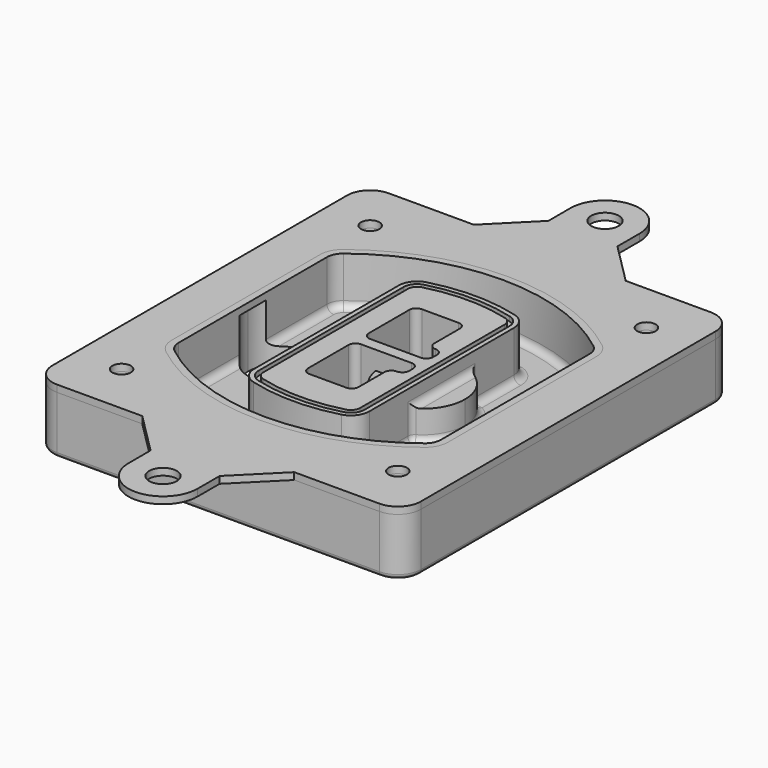
from build123d import *

# Parameters (mm, degrees)
F0_R      = 4
F1_DEPTH  = 25
F2_DEPTH  = 3
F3_DEPTH  = 18
F5_DEPTH  = 21
F6_DEPTH  = 2
F8_DEPTH  = 20
F9_DEPTH  = 16
F10_DEPTH = 25
F7_R      = 6
F7_R_2    = 4
F11_DEPTH = 6
F13_DEPTH = 9
F14_R     = 3
F15_R     = 2
F16_R     = 4
F16_R_2   = 6
F17_DEPTH = 3


with BuildPart() as f1:
    # F0 (on Top) → F1 (new body)
    with BuildSketch(Plane.XY):
        with BuildLine():
            ThreePointArc((14.05, 38.3825811321), (16.9789321881, 31.3115133202), (24.05, 28.3825811321))
            Line((24.05, 28.3825811321), (164.05, 28.3825811321))
            ThreePointArc((164.05, 28.3825811321), (171.1210678119, 31.3115133202), (174.05, 38.3825811321))
            Line((174.05, 38.3825811321), (174.05, 198.3825811321))
            ThreePointArc((174.05, 198.3825811321), (171.1210678119, 205.4536489439), (164.05, 208.3825811321))
            Line((164.05, 208.3825811321), (24.05, 208.3825811321))
            ThreePointArc((24.05, 208.3825811321), (16.9789321881, 205.4536489439), (14.05, 198.3825811321))
            Line((14.05, 198.3825811321), (14.05, 38.3825811321))
        make_face()
        with Locations((34.05, 50.8825811321)):
            Circle(F0_R, mode=Mode.SUBTRACT)
        with Locations((154.05, 50.8825811321)):
            Circle(F0_R, mode=Mode.SUBTRACT)
        with BuildLine():
            ThreePointArc((30.05, 158.6760234193), (31.4679615202, 164.8154295545), (35.4346153846, 169.7112011673))
            ThreePointArc((35.4346153846, 169.7112011673), (94.05, 189.8825811321), (152.6653846154, 169.7112011673))
            ThreePointArc((152.6653846154, 169.7112011673), (156.6320384798, 164.8154295545), (158.05, 158.6760234193))
            Line((158.05, 158.6760234193), (158.05, 78.0891388448))
            ThreePointArc((158.05, 78.0891388448), (156.6320384798, 71.9497327097), (152.6653846154, 67.0539610969))
            ThreePointArc((152.6653846154, 67.0539610969), (94.05, 46.8825811321), (35.4346153846, 67.0539610969))
            ThreePointArc((35.4346153846, 67.0539610969), (31.4679615202, 71.9497327097), (30.05, 78.0891388448))
            Line((30.05, 78.0891388448), (30.05, 158.6760234193))
        make_face(mode=Mode.SUBTRACT)
        with Locations((34.05, 185.8825811321)):
            Circle(F0_R, mode=Mode.SUBTRACT)
        with Locations((154.05, 185.8825811321)):
            Circle(F0_R, mode=Mode.SUBTRACT)
        with BuildLine():
            ThreePointArc((152.6653846154, 169.7112011673), (94.05, 189.8825811321), (35.4346153846, 169.7112011673))
            ThreePointArc((35.4346153846, 169.7112011673), (31.4679615202, 164.8154295545), (30.05, 158.6760234193))
            Line((30.05, 158.6760234193), (30.05, 78.0891388448))
            ThreePointArc((30.05, 78.0891388448), (31.4679615202, 71.9497327097), (35.4346153846, 67.0539610969))
            ThreePointArc((35.4346153846, 67.0539610969), (94.05, 46.8825811321), (152.6653846154, 67.0539610969))
            ThreePointArc((152.6653846154, 67.0539610969), (156.6320384798, 71.9497327097), (158.05, 78.0891388448))
            Line((158.05, 78.0891388448), (158.05, 158.6760234193))
            ThreePointArc((158.05, 158.6760234193), (156.6320384798, 164.8154295545), (152.6653846154, 169.7112011673))
        make_face()
        with BuildLine():
            Line((34.05, 78.0891388448), (34.05, 158.6760234193))
            ThreePointArc((34.05, 158.6760234193), (35.0628296573, 163.0613135158), (37.8961538462, 166.5582932393))
            ThreePointArc((37.8961538462, 166.5582932393), (94.05, 185.8825811321), (150.2038461538, 166.5582932393))
            ThreePointArc((150.2038461538, 166.5582932393), (153.0371703427, 163.0613135158), (154.05, 158.6760234193))
            Line((154.05, 158.6760234193), (154.05, 78.0891388448))
            ThreePointArc((154.05, 78.0891388448), (153.0371703427, 73.7038487483), (150.2038461538, 70.2068690248))
            ThreePointArc((150.2038461538, 70.2068690248), (94.05, 50.8825811321), (37.8961538462, 70.2068690248))
            ThreePointArc((37.8961538462, 70.2068690248), (35.0628296573, 73.7038487483), (34.05, 78.0891388448))
        make_face(mode=Mode.SUBTRACT)
        with BuildLine():
            ThreePointArc((37.8961538462, 166.5582932393), (35.0628296573, 163.0613135158), (34.05, 158.6760234193))
            Line((34.05, 158.6760234193), (34.05, 78.0891388448))
            ThreePointArc((34.05, 78.0891388448), (35.0628296573, 73.7038487483), (37.8961538462, 70.2068690248))
            ThreePointArc((37.8961538462, 70.2068690248), (94.05, 50.8825811321), (150.2038461538, 70.2068690248))
            ThreePointArc((150.2038461538, 70.2068690248), (153.0371703427, 73.7038487483), (154.05, 78.0891388448))
            Line((154.05, 78.0891388448), (154.05, 158.6760234193))
            ThreePointArc((154.05, 158.6760234193), (153.0371703427, 163.0613135158), (150.2038461538, 166.5582932393))
            ThreePointArc((150.2038461538, 166.5582932393), (94.05, 185.8825811321), (37.8961538462, 166.5582932393))
        make_face()
        with BuildLine():
            ThreePointArc((148.3576923077, 164.1936122933), (150.3410192399, 161.7457264869), (151.05, 158.6760234193))
            Line((151.05, 158.6760234193), (151.05, 78.0891388448))
            ThreePointArc((151.05, 78.0891388448), (150.3410192399, 75.0194357772), (148.3576923077, 72.5715499708))
            ThreePointArc((148.3576923077, 72.5715499708), (94.05, 53.8825811321), (39.7423076923, 72.5715499708))
            ThreePointArc((39.7423076923, 72.5715499708), (37.7589807601, 75.0194357772), (37.05, 78.0891388448))
            Line((37.05, 78.0891388448), (37.05, 158.6760234193))
            ThreePointArc((37.05, 158.6760234193), (37.7589807601, 161.7457264869), (39.7423076923, 164.1936122933))
            ThreePointArc((39.7423076923, 164.1936122933), (94.05, 182.8825811321), (148.3576923077, 164.1936122933))
        make_face(mode=Mode.SUBTRACT)
        with BuildLine():
            Line((151.05, 78.0891388448), (151.05, 158.6760234193))
            ThreePointArc((151.05, 158.6760234193), (150.3410192399, 161.7457264869), (148.3576923077, 164.1936122933))
            ThreePointArc((148.3576923077, 164.1936122933), (94.05, 182.8825811321), (39.7423076923, 164.1936122933))
            ThreePointArc((39.7423076923, 164.1936122933), (37.7589807601, 161.7457264869), (37.05, 158.6760234193))
            Line((37.05, 158.6760234193), (37.05, 78.0891388448))
            ThreePointArc((37.05, 78.0891388448), (37.7589807601, 75.0194357772), (39.7423076923, 72.5715499708))
            ThreePointArc((39.7423076923, 72.5715499708), (94.05, 53.8825811321), (148.3576923077, 72.5715499708))
            ThreePointArc((148.3576923077, 72.5715499708), (150.3410192399, 75.0194357772), (151.05, 78.0891388448))
        make_face()
    extrude(amount=-F1_DEPTH)

    # F0 (on Top) → F2 (join)
    with BuildSketch(Plane.XY):
        with BuildLine():
            ThreePointArc((37.8961538462, 166.5582932393), (35.0628296573, 163.0613135158), (34.05, 158.6760234193))
            Line((34.05, 158.6760234193), (34.05, 78.0891388448))
            ThreePointArc((34.05, 78.0891388448), (35.0628296573, 73.7038487483), (37.8961538462, 70.2068690248))
            ThreePointArc((37.8961538462, 70.2068690248), (94.05, 50.8825811321), (150.2038461538, 70.2068690248))
            ThreePointArc((150.2038461538, 70.2068690248), (153.0371703427, 73.7038487483), (154.05, 78.0891388448))
            Line((154.05, 78.0891388448), (154.05, 158.6760234193))
            ThreePointArc((154.05, 158.6760234193), (153.0371703427, 163.0613135158), (150.2038461538, 166.5582932393))
            ThreePointArc((150.2038461538, 166.5582932393), (94.05, 185.8825811321), (37.8961538462, 166.5582932393))
        make_face()
        with BuildLine():
            ThreePointArc((148.3576923077, 164.1936122933), (150.3410192399, 161.7457264869), (151.05, 158.6760234193))
            Line((151.05, 158.6760234193), (151.05, 78.0891388448))
            ThreePointArc((151.05, 78.0891388448), (150.3410192399, 75.0194357772), (148.3576923077, 72.5715499708))
            ThreePointArc((148.3576923077, 72.5715499708), (94.05, 53.8825811321), (39.7423076923, 72.5715499708))
            ThreePointArc((39.7423076923, 72.5715499708), (37.7589807601, 75.0194357772), (37.05, 78.0891388448))
            Line((37.05, 78.0891388448), (37.05, 158.6760234193))
            ThreePointArc((37.05, 158.6760234193), (37.7589807601, 161.7457264869), (39.7423076923, 164.1936122933))
            ThreePointArc((39.7423076923, 164.1936122933), (94.05, 182.8825811321), (148.3576923077, 164.1936122933))
        make_face(mode=Mode.SUBTRACT)
    extrude(amount=F2_DEPTH)

    # F0 (on Top) → F3 (cut)
    with BuildSketch(Plane.XY):
        with BuildLine():
            Line((151.05, 78.0891388448), (151.05, 158.6760234193))
            ThreePointArc((151.05, 158.6760234193), (150.3410192399, 161.7457264869), (148.3576923077, 164.1936122933))
            ThreePointArc((148.3576923077, 164.1936122933), (94.05, 182.8825811321), (39.7423076923, 164.1936122933))
            ThreePointArc((39.7423076923, 164.1936122933), (37.7589807601, 161.7457264869), (37.05, 158.6760234193))
            Line((37.05, 158.6760234193), (37.05, 78.0891388448))
            ThreePointArc((37.05, 78.0891388448), (37.7589807601, 75.0194357772), (39.7423076923, 72.5715499708))
            ThreePointArc((39.7423076923, 72.5715499708), (94.05, 53.8825811321), (148.3576923077, 72.5715499708))
            ThreePointArc((148.3576923077, 72.5715499708), (150.3410192399, 75.0194357772), (151.05, 78.0891388448))
        make_face()
    extrude(amount=-F3_DEPTH, mode=Mode.SUBTRACT)

    # F4 (on face) → F5 (join, through all)
    with BuildSketch(Plane.XY.offset(3)):
        with BuildLine():
            ThreePointArc((69.05, 79.13605345), (70.6988454002, 74.2716074128), (74.9657088123, 71.4123412437))
            ThreePointArc((74.9657088123, 71.4123412437), (94.05, 68.8825811321), (113.1342911877, 71.4123412437))
            ThreePointArc((113.1342911877, 71.4123412437), (117.4011545998, 74.2716074128), (119.05, 79.13605345))
            Line((119.05, 79.13605345), (119.05, 157.6291088141))
            ThreePointArc((119.05, 157.6291088141), (117.4011545998, 162.4935548514), (113.1342911877, 165.3528210204))
            ThreePointArc((113.1342911877, 165.3528210204), (94.05, 167.8825811321), (74.9657088123, 165.3528210204))
            ThreePointArc((74.9657088123, 165.3528210204), (70.6988454002, 162.4935548514), (69.05, 157.6291088141))
            Line((69.05, 157.6291088141), (69.05, 79.13605345))
        make_face()
        with BuildLine():
            ThreePointArc((112.6132183908, 163.4218929688), (115.8133659499, 161.2774433421), (117.05, 157.6291088141))
            Line((117.05, 157.6291088141), (117.05, 79.13605345))
            ThreePointArc((117.05, 79.13605345), (115.8133659499, 75.4877189221), (112.6132183908, 73.3432692953))
            ThreePointArc((112.6132183908, 73.3432692953), (94.05, 70.8825811321), (75.4867816092, 73.3432692953))
            ThreePointArc((75.4867816092, 73.3432692953), (72.2866340501, 75.4877189221), (71.05, 79.13605345))
            Line((71.05, 79.13605345), (71.05, 157.6291088141))
            ThreePointArc((71.05, 157.6291088141), (72.2866340501, 161.2774433421), (75.4867816092, 163.4218929688))
            ThreePointArc((75.4867816092, 163.4218929688), (94.05, 165.8825811321), (112.6132183908, 163.4218929688))
        make_face(mode=Mode.SUBTRACT)
        with BuildLine():
            Line((117.05, 79.13605345), (117.05, 157.6291088141))
            ThreePointArc((117.05, 157.6291088141), (115.8133659499, 161.2774433421), (112.6132183908, 163.4218929688))
            ThreePointArc((112.6132183908, 163.4218929688), (94.05, 165.8825811321), (75.4867816092, 163.4218929688))
            ThreePointArc((75.4867816092, 163.4218929688), (72.2866340501, 161.2774433421), (71.05, 157.6291088141))
            Line((71.05, 157.6291088141), (71.05, 79.13605345))
            ThreePointArc((71.05, 79.13605345), (72.2866340501, 75.4877189221), (75.4867816092, 73.3432692953))
            ThreePointArc((75.4867816092, 73.3432692953), (94.05, 70.8825811321), (112.6132183908, 73.3432692953))
            ThreePointArc((112.6132183908, 73.3432692953), (115.8133659499, 75.4877189221), (117.05, 79.13605345))
        make_face()
        with BuildLine():
            ThreePointArc((112.0921455939, 161.4909649173), (114.2255772999, 160.0613318328), (115.05, 157.6291088141))
            Line((115.05, 157.6291088141), (115.05, 79.13605345))
            ThreePointArc((115.05, 79.13605345), (114.2255772999, 76.7038304314), (112.0921455939, 75.2741973469))
            ThreePointArc((112.0921455939, 75.2741973469), (94.05, 72.8825811321), (76.0078544061, 75.2741973469))
            ThreePointArc((76.0078544061, 75.2741973469), (73.8744227001, 76.7038304314), (73.05, 79.13605345))
            Line((73.05, 79.13605345), (73.05, 157.6291088141))
            ThreePointArc((73.05, 157.6291088141), (73.8744227001, 160.0613318328), (76.0078544061, 161.4909649173))
            ThreePointArc((76.0078544061, 161.4909649173), (94.05, 163.8825811321), (112.0921455939, 161.4909649173))
        make_face(mode=Mode.SUBTRACT)
        with BuildLine():
            Line((115.05, 79.13605345), (115.05, 157.6291088141))
            ThreePointArc((115.05, 157.6291088141), (114.2255772999, 160.0613318328), (112.0921455939, 161.4909649173))
            ThreePointArc((112.0921455939, 161.4909649173), (94.05, 163.8825811321), (76.0078544061, 161.4909649173))
            ThreePointArc((76.0078544061, 161.4909649173), (73.8744227001, 160.0613318328), (73.05, 157.6291088141))
            Line((73.05, 157.6291088141), (73.05, 79.13605345))
            ThreePointArc((73.05, 79.13605345), (73.8744227001, 76.7038304314), (76.0078544061, 75.2741973469))
            ThreePointArc((76.0078544061, 75.2741973469), (94.05, 72.8825811321), (112.0921455939, 75.2741973469))
            ThreePointArc((112.0921455939, 75.2741973469), (114.2255772999, 76.7038304314), (115.05, 79.13605345))
        make_face()
        with BuildLine():
            Line((86.05, 115.8825811321), (108.05, 115.8825811321))
            ThreePointArc((108.05, 115.8825811321), (110.1713203436, 115.0039014756), (111.05, 112.8825811321))
            Line((111.05, 112.8825811321), (111.05, 110.8825811321))
            ThreePointArc((111.05, 110.8825811321), (110.1713203436, 108.7612607885), (108.05, 107.8825811321))
            ThreePointArc((108.05, 107.8825811321), (105.9286796564, 107.0039014756), (105.05, 104.8825811321))
            Line((105.05, 104.8825811321), (105.05, 90.8825811321))
            ThreePointArc((105.05, 90.8825811321), (104.1713203436, 88.7612607885), (102.05, 87.8825811321))
            Line((102.05, 87.8825811321), (86.05, 87.8825811321))
            ThreePointArc((86.05, 87.8825811321), (83.9286796564, 88.7612607885), (83.05, 90.8825811321))
            Line((83.05, 90.8825811321), (83.05, 112.8825811321))
            ThreePointArc((83.05, 112.8825811321), (83.9286796564, 115.0039014756), (86.05, 115.8825811321))
        make_face(mode=Mode.SUBTRACT)
        with BuildLine():
            ThreePointArc((86.05, 120.8825811321), (83.9286796564, 121.7612607885), (83.05, 123.8825811321))
            Line((83.05, 123.8825811321), (83.05, 145.8825811321))
            ThreePointArc((83.05, 145.8825811321), (83.9286796564, 148.0039014756), (86.05, 148.8825811321))
            Line((86.05, 148.8825811321), (102.05, 148.8825811321))
            ThreePointArc((102.05, 148.8825811321), (104.1713203436, 148.0039014756), (105.05, 145.8825811321))
            Line((105.05, 145.8825811321), (105.05, 131.8825811321))
            ThreePointArc((105.05, 131.8825811321), (105.9286796564, 129.7612607885), (108.05, 128.8825811321))
            ThreePointArc((108.05, 128.8825811321), (110.1713203436, 128.0039014756), (111.05, 125.8825811321))
            Line((111.05, 125.8825811321), (111.05, 123.8825811321))
            ThreePointArc((111.05, 123.8825811321), (110.1713203436, 121.7612607885), (108.05, 120.8825811321))
            Line((108.05, 120.8825811321), (86.05, 120.8825811321))
        make_face(mode=Mode.SUBTRACT)
    extrude(amount=-F5_DEPTH)

    # F4 (on face) → F6 (cut)
    with BuildSketch(Plane.XY.offset(3)):
        with BuildLine():
            Line((117.05, 79.13605345), (117.05, 157.6291088141))
            ThreePointArc((117.05, 157.6291088141), (115.8133659499, 161.2774433421), (112.6132183908, 163.4218929688))
            ThreePointArc((112.6132183908, 163.4218929688), (94.05, 165.8825811321), (75.4867816092, 163.4218929688))
            ThreePointArc((75.4867816092, 163.4218929688), (72.2866340501, 161.2774433421), (71.05, 157.6291088141))
            Line((71.05, 157.6291088141), (71.05, 79.13605345))
            ThreePointArc((71.05, 79.13605345), (72.2866340501, 75.4877189221), (75.4867816092, 73.3432692953))
            ThreePointArc((75.4867816092, 73.3432692953), (94.05, 70.8825811321), (112.6132183908, 73.3432692953))
            ThreePointArc((112.6132183908, 73.3432692953), (115.8133659499, 75.4877189221), (117.05, 79.13605345))
        make_face()
        with BuildLine():
            ThreePointArc((112.0921455939, 161.4909649173), (114.2255772999, 160.0613318328), (115.05, 157.6291088141))
            Line((115.05, 157.6291088141), (115.05, 79.13605345))
            ThreePointArc((115.05, 79.13605345), (114.2255772999, 76.7038304314), (112.0921455939, 75.2741973469))
            ThreePointArc((112.0921455939, 75.2741973469), (94.05, 72.8825811321), (76.0078544061, 75.2741973469))
            ThreePointArc((76.0078544061, 75.2741973469), (73.8744227001, 76.7038304314), (73.05, 79.13605345))
            Line((73.05, 79.13605345), (73.05, 157.6291088141))
            ThreePointArc((73.05, 157.6291088141), (73.8744227001, 160.0613318328), (76.0078544061, 161.4909649173))
            ThreePointArc((76.0078544061, 161.4909649173), (94.05, 163.8825811321), (112.0921455939, 161.4909649173))
        make_face(mode=Mode.SUBTRACT)
    extrude(amount=-F6_DEPTH, mode=Mode.SUBTRACT)

    # F7 (on face) → F8 (join)
    with BuildSketch(Plane(origin=(0, 0, -25), x_dir=(1, 0, 0), z_dir=(0, 0, -1))):
        with BuildLine():
            ThreePointArc((97.33842436, -118.3825811321), (110.8067035675, -104.9143019245), (124.274982775, -118.3825811321))
            Line((124.274982775, -118.3825811321), (129.274982775, -118.3825811321))
            ThreePointArc((129.274982775, -118.3825811321), (110.8067035675, -99.9143019245), (92.33842436, -118.3825811321))
            Line((92.33842436, -118.3825811321), (97.33842436, -118.3825811321))
        make_face()
        with BuildLine():
            Line((97.33842436, -118.3825811321), (124.274982775, -118.3825811321))
            ThreePointArc((124.274982775, -118.3825811321), (110.8067035675, -104.9143019245), (97.33842436, -118.3825811321))
        make_face()
        with BuildLine():
            ThreePointArc((97.33842436, -118.3825811321), (110.8067035675, -131.8508603396), (124.274982775, -118.3825811321))
            Line((124.274982775, -118.3825811321), (97.33842436, -118.3825811321))
        make_face()
        with BuildLine():
            Line((129.274982775, -118.3825811321), (124.274982775, -118.3825811321))
            ThreePointArc((124.274982775, -118.3825811321), (110.8067035675, -131.8508603396), (97.33842436, -118.3825811321))
            Line((97.33842436, -118.3825811321), (92.33842436, -118.3825811321))
            ThreePointArc((92.33842436, -118.3825811321), (110.8067035675, -136.8508603396), (129.274982775, -118.3825811321))
        make_face()
    extrude(amount=-F8_DEPTH)

    # F7 (on face) → F9 (cut)
    with BuildSketch(Plane(origin=(0, 0, -25), x_dir=(1, 0, 0), z_dir=(0, 0, -1))):
        with BuildLine():
            Line((97.33842436, -118.3825811321), (124.274982775, -118.3825811321))
            ThreePointArc((124.274982775, -118.3825811321), (110.8067035675, -104.9143019245), (97.33842436, -118.3825811321))
        make_face()
        with BuildLine():
            ThreePointArc((97.33842436, -118.3825811321), (110.8067035675, -131.8508603396), (124.274982775, -118.3825811321))
            Line((124.274982775, -118.3825811321), (97.33842436, -118.3825811321))
        make_face()
    extrude(amount=-F9_DEPTH, mode=Mode.SUBTRACT)

    # F7 (on face) → F10 (cut)
    with BuildSketch(Plane(origin=(0, 0, -25), x_dir=(1, 0, 0), z_dir=(0, 0, -1))):
        with BuildLine():
            Line((35.0181770675, -118.3825811321), (61.9547354825, -118.3825811321))
            ThreePointArc((61.9547354825, -118.3825811321), (48.486456275, -104.9143019245), (35.0181770675, -118.3825811321))
        make_face()
        with BuildLine():
            ThreePointArc((35.0181770675, -118.3825811321), (48.486456275, -131.8508603396), (61.9547354825, -118.3825811321))
            Line((61.9547354825, -118.3825811321), (35.0181770675, -118.3825811321))
        make_face()
    extrude(amount=-F10_DEPTH, mode=Mode.SUBTRACT)

    # F7 (on face) → F11 (cut)
    with BuildSketch(Plane(origin=(0, 0, -25), x_dir=(1, 0, 0), z_dir=(0, 0, -1))):
        with Locations((154.05, -185.8825811321)):
            Circle(F7_R)
        with Locations((154.05, -185.8825811321)):
            Circle(F7_R_2, mode=Mode.SUBTRACT)
        with Locations((154.05, -185.8825811321)):
            Circle(F7_R)
        with Locations((154.05, -185.8825811321)):
            Circle(F7_R_2, mode=Mode.SUBTRACT)
        with Locations((34.05, -185.8825811321)):
            Circle(F7_R)
        with Locations((34.05, -185.8825811321)):
            Circle(F7_R_2, mode=Mode.SUBTRACT)
        with Locations((34.05, -185.8825811321)):
            Circle(F7_R)
        with Locations((34.05, -185.8825811321)):
            Circle(F7_R_2, mode=Mode.SUBTRACT)
        with Locations((34.05, -50.8825811321)):
            Circle(F7_R)
        with Locations((34.05, -50.8825811321)):
            Circle(F7_R_2, mode=Mode.SUBTRACT)
        with Locations((34.05, -50.8825811321)):
            Circle(F7_R)
        with Locations((34.05, -50.8825811321)):
            Circle(F7_R_2, mode=Mode.SUBTRACT)
        with Locations((154.05, -50.8825811321)):
            Circle(F7_R)
        with Locations((154.05, -50.8825811321)):
            Circle(F7_R_2, mode=Mode.SUBTRACT)
        with Locations((154.05, -50.8825811321)):
            Circle(F7_R)
        with Locations((154.05, -50.8825811321)):
            Circle(F7_R_2, mode=Mode.SUBTRACT)
    extrude(amount=-F11_DEPTH, mode=Mode.SUBTRACT)

    # F12 (on face) → F13 (cut, through all)
    with BuildSketch(Plane(origin=(0, 0, -9), x_dir=(1, 0, 0), z_dir=(0, 0, -1))):
        with BuildLine():
            Line((105.05, -104.8825811321), (105.05, -100.8344273567))
            ThreePointArc((105.05, -100.8344273567), (96.6196536419, -106.5586667507), (92.5084157545, -115.8825811321))
            Line((92.5084157545, -115.8825811321), (97.5724848595, -115.8825811321))
            ThreePointArc((97.5724848595, -115.8825811321), (100.2357188154, -110.0369939039), (105.3036447004, -106.0898642673))
            ThreePointArc((105.3036447004, -106.0898642673), (105.1140958889, -105.4994012441), (105.05, -104.8825811321))
        make_face()
        with BuildLine():
            ThreePointArc((105.3036447004, -130.6752979968), (100.2357188154, -126.7281683602), (97.5724848595, -120.8825811321))
            Line((97.5724848595, -120.8825811321), (92.5084157545, -120.8825811321))
            ThreePointArc((92.5084157545, -120.8825811321), (96.6196536419, -130.2064955134), (105.05, -135.9307349074))
            Line((105.05, -135.9307349074), (105.05, -131.8825811321))
            ThreePointArc((105.05, -131.8825811321), (105.1140958889, -131.26576102), (105.3036447004, -130.6752979968))
        make_face()
        with BuildLine():
            ThreePointArc((105.3036447004, -106.0898642673), (100.2357188154, -110.0369939039), (97.5724848595, -115.8825811321))
            Line((97.5724848595, -115.8825811321), (108.05, -115.8825811321))
            ThreePointArc((108.05, -115.8825811321), (110.1713203436, -115.0039014756), (111.05, -112.8825811321))
            Line((111.05, -112.8825811321), (111.05, -110.8825811321))
            ThreePointArc((111.05, -110.8825811321), (110.1713203436, -108.7612607885), (108.05, -107.8825811321))
            ThreePointArc((108.05, -107.8825811321), (106.4101599782, -107.3947365219), (105.3036447004, -106.0898642673))
        make_face()
        with BuildLine():
            Line((108.05, -120.8825811321), (97.5724848595, -120.8825811321))
            ThreePointArc((97.5724848595, -120.8825811321), (100.2357188154, -126.7281683602), (105.3036447004, -130.6752979968))
            ThreePointArc((105.3036447004, -130.6752979968), (106.4101599782, -129.3704257422), (108.05, -128.8825811321))
            ThreePointArc((108.05, -128.8825811321), (110.1713203436, -128.0039014756), (111.05, -125.8825811321))
            Line((111.05, -125.8825811321), (111.05, -123.8825811321))
            ThreePointArc((111.05, -123.8825811321), (110.1713203436, -121.7612607885), (108.05, -120.8825811321))
        make_face()
    extrude(amount=F13_DEPTH, mode=Mode.SUBTRACT)

    # F14
    f14_edges = [f1.edges().sort_by_distance(p)[0] for p in [
        (37.05, 94.679105, -18),
        (37.05, 142.086057, -18),
        (119.05, 118.382581, -5),
        (119.05, 134.909087, -11.5),
        (119.05, 101.856075, -11.5),
        (119.05, 90.496064, -18),
        (129.274983, 118.382581, -18),
    ]]
    fillet(f14_edges, radius=F14_R)

    # F15
    f15_edges = [f1.edges().sort_by_distance(p)[0] for p in [
        (94.05, 28.382581, -25),
    ]]
    fillet(f15_edges, radius=F15_R)


with BuildPart() as f17:
    # F16 (on face) → F17 (new body, through all)
    with BuildSketch(Plane.XY):
        with BuildLine():
            Line((14.05, 198.3825811321), (14.05, 38.3825811321))
            ThreePointArc((14.05, 38.3825811321), (16.9789321881, 31.3115133202), (24.05, 28.3825811321))
            Line((24.05, 28.3825811321), (61.05, 28.3825811321))
            Line((61.05, 28.3825811321), (127.05, 28.3825811321))
            Line((127.05, 28.3825811321), (164.05, 28.3825811321))
            ThreePointArc((164.05, 28.3825811321), (171.1210678119, 31.3115133202), (174.05, 38.3825811321))
            Line((174.05, 38.3825811321), (174.05, 198.3825811321))
            ThreePointArc((174.05, 198.3825811321), (171.1210678119, 205.4536489439), (164.05, 208.3825811321))
            Line((164.05, 208.3825811321), (127.05, 208.3825811321))
            Line((127.05, 208.3825811321), (61.05, 208.3825811321))
            Line((61.05, 208.3825811321), (24.05, 208.3825811321))
            ThreePointArc((24.05, 208.3825811321), (16.9789321881, 205.4536489439), (14.05, 198.3825811321))
        make_face()
        with Locations((34.05, 50.8825811321)):
            Circle(F16_R, mode=Mode.SUBTRACT)
        with BuildLine():
            ThreePointArc((150.2038461538, 166.5582932393), (153.0371703427, 163.0613135158), (154.05, 158.6760234193))
            Line((154.05, 158.6760234193), (154.05, 78.0891388448))
            ThreePointArc((154.05, 78.0891388448), (153.0371703427, 73.7038487483), (150.2038461538, 70.2068690248))
            ThreePointArc((150.2038461538, 70.2068690248), (94.05, 50.8825811321), (37.8961538462, 70.2068690248))
            ThreePointArc((37.8961538462, 70.2068690248), (35.0628296573, 73.7038487483), (34.05, 78.0891388448))
            Line((34.05, 78.0891388448), (34.05, 158.6760234193))
            ThreePointArc((34.05, 158.6760234193), (35.0628296573, 163.0613135158), (37.8961538462, 166.5582932393))
            ThreePointArc((37.8961538462, 166.5582932393), (94.05, 185.8825811321), (150.2038461538, 166.5582932393))
        make_face(mode=Mode.SUBTRACT)
        with Locations((154.05, 50.8825811321)):
            Circle(F16_R, mode=Mode.SUBTRACT)
        with Locations((34.05, 185.8825811321)):
            Circle(F16_R, mode=Mode.SUBTRACT)
        with Locations((154.05, 185.8825811321)):
            Circle(F16_R, mode=Mode.SUBTRACT)
        with BuildLine():
            Line((79.05, 226.3825811321), (61.05, 208.3825811321))
            Line((61.05, 208.3825811321), (127.05, 208.3825811321))
            Line((127.05, 208.3825811321), (109.05, 226.3825811321))
            Line((109.05, 226.3825811321), (109.05, 238.3825811321))
            ThreePointArc((109.05, 238.3825811321), (94.05, 253.3825811321), (79.05, 238.3825811321))
            Line((79.05, 238.3825811321), (79.05, 226.3825811321))
        make_face()
        with Locations((94.05, 238.3825811321)):
            Circle(F16_R_2, mode=Mode.SUBTRACT)
        with BuildLine():
            Line((127.05, 28.3825811321), (61.05, 28.3825811321))
            Line((61.05, 28.3825811321), (79.05, 10.3825811321))
            Line((79.05, 10.3825811321), (79.05, -1.6174188679))
            ThreePointArc((79.05, -1.6174188679), (94.05, -16.6174188679), (109.05, -1.6174188679))
            Line((109.05, -1.6174188679), (109.05, 10.3825811321))
            Line((109.05, 10.3825811321), (127.05, 28.3825811321))
        make_face()
        with Locations((94.05, -1.6174188679)):
            Circle(F16_R_2, mode=Mode.SUBTRACT)
    extrude(amount=F17_DEPTH)


solid = Compound([f1.part, f17.part])
